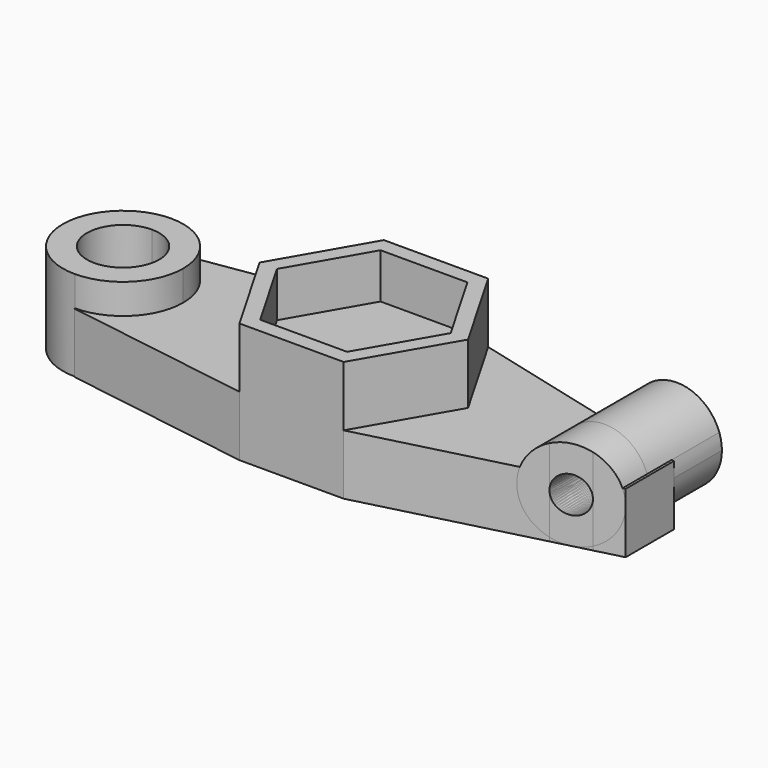
from build123d import *

# Parameters (mm, degrees)
F1_DEPTH      = 40
F2_DEPTH      = 25
F3_DEPTH      = 20
F4_DEPTH      = 20
F5_DEPTH      = 30
F7_DEPTH      = 30
F7_DEPTH_BACK = 30
F9_DEPTH      = 70.8
F11_DEPTH     = 43.2


with BuildPart() as f1:
    # F0 (on Top) → F1 (new body)
    with BuildSketch(Plane.XY):
        Polygon((17.3205080757, 30), (-17.3205080757, 30), (-34.6410161514, 0), (-17.3205080757, -30), (0, -30), (17.3205080757, -30), (34.6410161514, 0), align=None)
        Polygon((-28.8675134595, 0), (-14.4337567297, 25), (14.4337567297, 25), (28.8675134595, 0), (14.4337567297, -25), (-14.4337567297, -25), align=None, mode=Mode.SUBTRACT)
    extrude(amount=F1_DEPTH)

    # F0 (on Top) → F2 (join)
    with BuildSketch(Plane.XY):
        Polygon((14.4337567297, 25), (-14.4337567297, 25), (-28.8675134595, 0), (-14.4337567297, -25), (14.4337567297, -25), (28.8675134595, 0), align=None)
    extrude(amount=F2_DEPTH)

    # F0 (on Top) → F3 (join)
    with BuildSketch(Plane.XY):
        Polygon((74, 15.4068324804), (17.3205080757, 30), (34.6410161514, 0), (17.3205080757, -30), (74, -15.4068324804), (74, -10), (74, 10), align=None)
        with BuildLine():
            Line((-34.6410161514, 0), (-17.3205080757, 30))
            Line((-17.3205080757, 30), (-80, 20.240965239))
            Line((-80, 20.240965239), (-80, 20))
            ThreePointArc((-80, 20), (-65.8578643763, 14.1421356237), (-60, 0))
            ThreePointArc((-60, 0), (-65.8578643763, -14.1421356237), (-80, -20))
            Line((-80, -20), (-80, -20.240965239))
            Line((-80, -20.240965239), (-17.3205080757, -30))
            Line((-17.3205080757, -30), (-34.6410161514, 0))
        make_face()
    extrude(amount=F3_DEPTH)

    # F0 (on Top) → F4 (join)
    with BuildSketch(Plane.XY):
        Polygon((86, 12.3172139202), (74, 15.4068324804), (74, 10), (74, -10), (74, -15.4068324804), (86, -12.3172139202), (86, -10), (86, 10), align=None)
        Polygon((95, 10), (86, 12.3172139202), (86, 10), (86, -10), (86, -12.3172139202), (95, -10), align=None)
    extrude(amount=F4_DEPTH)

    # F0 (on Top) → F5 (join)
    with BuildSketch(Plane.XY):
        with BuildLine():
            ThreePointArc((-60, 0), (-65.8578643763, 14.1421356237), (-80, 20))
            Line((-80, 20), (-80, 12))
            ThreePointArc((-80, 12), (-71.5147186258, 8.4852813742), (-68, 0))
            ThreePointArc((-68, 0), (-71.5147186258, -8.4852813742), (-80, -12))
            Line((-80, -12), (-80, -20))
            ThreePointArc((-80, -20), (-65.8578643763, -14.1421356237), (-60, 0))
        make_face()
        with BuildLine():
            Line((-80, 12), (-80, 20))
            ThreePointArc((-80, 20), (-100, 0), (-80, -20))
            Line((-80, -20), (-80, -12))
            ThreePointArc((-80, -12), (-92, 0), (-80, 12))
        make_face()
    extrude(amount=F5_DEPTH)

    # F8 (on face) → F9 (cut)
    with BuildSketch(Plane.XZ.offset(30)):
        with BuildLine():
            Line((83.3166247904, 20), (76.6833752096, 20))
            ThreePointArc((76.6833752096, 20), (77.1627256691, 9.7132359263), (86, 15))
            ThreePointArc((86, 15), (85.2867640737, 17.8372743309), (83.3166247904, 20))
        make_face()
    extrude(amount=-F9_DEPTH, mode=Mode.SUBTRACT)


with BuildPart() as f7:
    # F6 (on Front) → F7 (new body, two sides)
    with BuildSketch(Plane.XZ) as f7_sk:
        with BuildLine():
            ThreePointArc((65.8578643763, 20), (67.7525512861, 6.3397459622), (80, 0))
            ThreePointArc((80, 0), (90.6066017178, 4.3933982822), (95, 15))
            Line((95, 15), (86, 15))
            ThreePointArc((86, 15), (77.1627256691, 9.7132359263), (76.6833752096, 20))
            Line((76.6833752096, 20), (65.8578643763, 20))
        make_face()
        with BuildLine():
            ThreePointArc((94.1421356237, 20), (80, 30), (65.8578643763, 20))
            Line((65.8578643763, 20), (76.6833752096, 20))
            ThreePointArc((76.6833752096, 20), (80, 21), (83.3166247904, 20))
            Line((83.3166247904, 20), (94.1421356237, 20))
        make_face()
        with BuildLine():
            Line((86, 15), (95, 15))
            ThreePointArc((95, 15), (94.7839783948, 17.5365296809), (94.1421356237, 20))
            Line((94.1421356237, 20), (83.3166247904, 20))
            ThreePointArc((83.3166247904, 20), (85.2867640737, 17.8372743309), (86, 15))
        make_face()
    extrude(amount=F7_DEPTH)
    extrude(f7_sk.sketch, amount=-F7_DEPTH_BACK)

    # F0 (on Top) → F11 (cut)
    with BuildSketch(Plane.XY):
        Polygon((74, -15.4068324804), (17.3205080757, -30), (74, -30), align=None)
        Polygon((74, -15.4068324804), (74, -30), (80, -30), (86, -30), (86, -12.3172139202), align=None)
        Polygon((95, -10), (86, -12.3172139202), (86, -30), (95, -30), align=None)
    extrude(amount=F11_DEPTH, mode=Mode.SUBTRACT)


solid = Compound([f1.part, f7.part])
